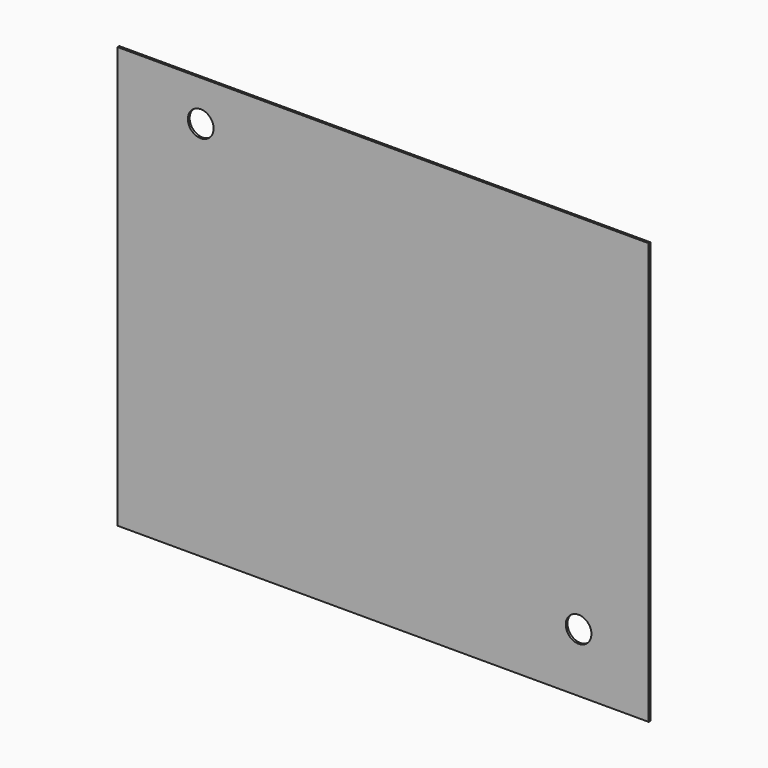
from build123d import *

# Parameters (mm, degrees)
F0_W     = 61.976
F0_H     = 49.1744
F0_R     = 1.4986
F1_DEPTH = 0.254


with BuildPart() as f1:
    # F0 (on Front) → F1 (new body)
    with BuildSketch(Plane.XZ):
        with Locations((0, -1e-06)):
            Rectangle(F0_W, F0_H)
        with Locations((22.809194, -17.7292)):
            Circle(F0_R, mode=Mode.SUBTRACT)
        with Locations((-21.2852, 19.862799)):
            Circle(F0_R, mode=Mode.SUBTRACT)
    extrude(amount=F1_DEPTH)


solid = f1.part
